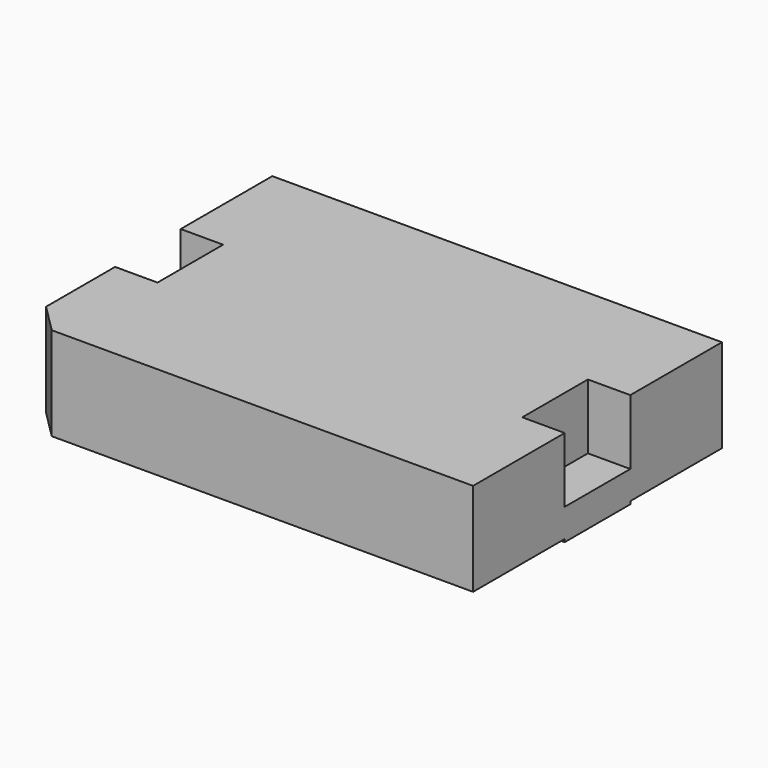
from build123d import *

# Parameters (mm, degrees)
PAD001_DEPTH      = 3.3
SKETCH002_W       = 1.5
SKETCH002_H       = 2.9
POCKET_DEPTH      = 5
PAD002_DEPTH      = 0.1
PAD002_DEPTH_BACK = 1


with BuildPart() as part:
    # Sketch001 → Pad001 (new body)
    with BuildSketch(Plane.XY.offset(0.01)):
        Polygon((-7.95, 11), (7.95, 11), (7.95, 0), (-6.95, 0), (-7.95, 1), align=None)
    extrude(amount=PAD001_DEPTH)

    # Sketch002 → Pocket (cut)
    with BuildSketch(Plane.XY.offset(3.31)):
        with Locations((-7.2, 5.5)):
            Rectangle(SKETCH002_W, SKETCH002_H)
        with Locations((7.2, 5.5)):
            Rectangle(SKETCH002_W, SKETCH002_H)
    extrude(amount=-POCKET_DEPTH, mode=Mode.SUBTRACT)

    # Sketch003 → Pad002 (new body, two sides)
    with BuildSketch(Plane(origin=(0, 0, 0.01), x_dir=(1, 0, 0), z_dir=(0, 0, -1))) as pad002_sk:
        Polygon((-7.95, -6.95), (-7.95, -4.05), (-4.8, -4.05), (-4.8, -2.5), (4.8, -2.5), (4.8, -4.05), (7.95, -4.05), (7.95, -6.95), (4.8, -6.95), (4.8, -8.5), (-4.8, -8.5), (-4.8, -6.95), align=None)
    extrude(amount=PAD002_DEPTH)
    extrude(pad002_sk.sketch, amount=-PAD002_DEPTH_BACK)


solid = part.part
